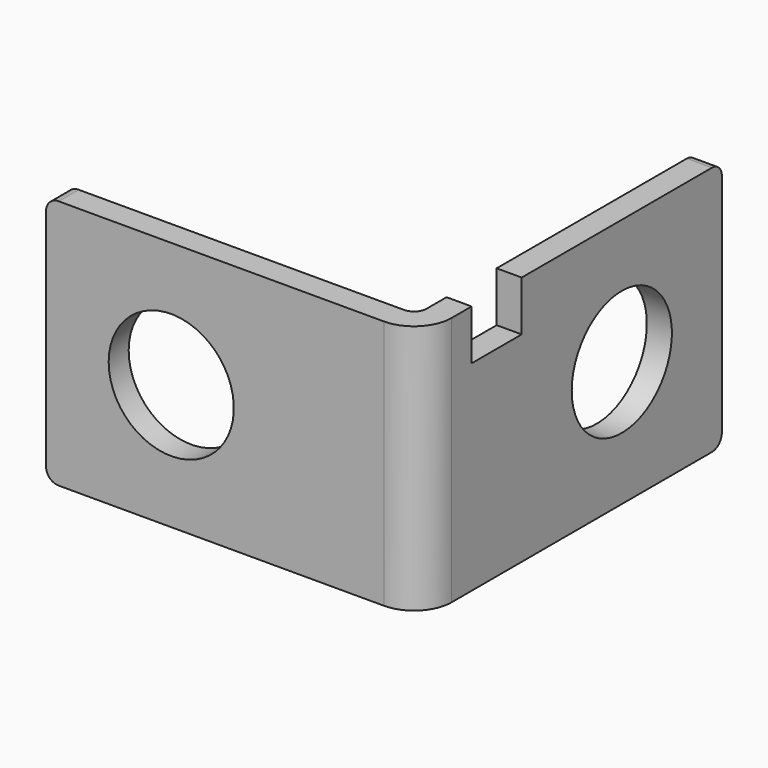
from build123d import *

# Parameters (mm, degrees)
F0_W     = 30
F0_H     = 20
F1_DEPTH = 2
F2_W     = 2
F2_H     = 20
F3_DEPTH = 30
F5_R     = 5
F5_W     = 5
F5_H     = 4
F6_DEPTH = 2.001
F4_R     = 5
F7_DEPTH = 25
F8_R     = 3
F9_R     = 1


with BuildPart() as f1:
    # F0 (on Front) → F1 (new body)
    with BuildSketch(Plane.XZ):
        with Locations((15, 10)):
            Rectangle(F0_W, F0_H)
    extrude(amount=-F1_DEPTH)

    # F2 (on face) → F3 (join)
    with BuildSketch(Plane.XZ):
        with Locations((29, 10)):
            Rectangle(F2_W, F2_H)
    extrude(amount=-F3_DEPTH)

    # F5 (on face) → F6 (cut, through all)
    with BuildSketch(Plane(origin=(28, 0, 0), x_dir=(0, -1, 0), z_dir=(-1, 0, 0))):
        with Locations((-20, 10)):
            Circle(F5_R)
        with Locations((-7.5, 18)):
            Rectangle(F5_W, F5_H)
    extrude(amount=-F6_DEPTH, mode=Mode.SUBTRACT)

    # F4 (on face) → F7 (cut)
    with BuildSketch(Plane(origin=(0, 2, 0), x_dir=(-1, 0, 0), z_dir=(0, 1, 0))):
        with Locations((-10, 10)):
            Circle(F4_R)
    extrude(amount=-F7_DEPTH, mode=Mode.SUBTRACT)

    # F8
    f8_edges = [f1.edges().sort_by_distance(p)[0] for p in [
        (30, 0, 10),
    ]]
    fillet(f8_edges, radius=F8_R)

    # F9
    f9_edges = [f1.edges().sort_by_distance(p)[0] for p in [
        (0, 1, 20),
        (28, 2, 10),
        (29, 30, 20),
        (0, 1, 0),
        (29, 30, 0),
    ]]
    fillet(f9_edges, radius=F9_R)


solid = f1.part
